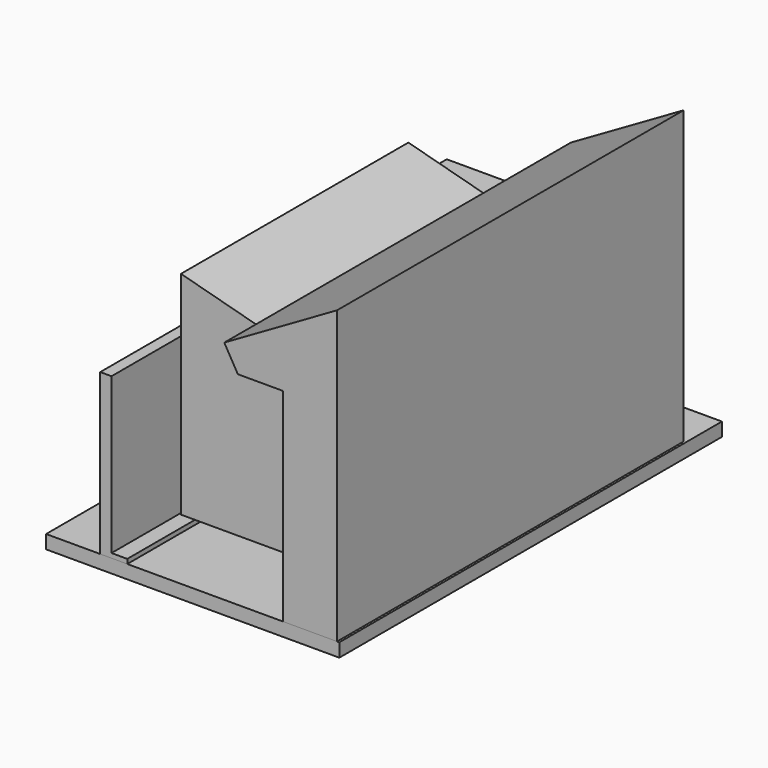
from build123d import *

# Parameters (mm, degrees)
F1_DEPTH  = 3200.4
F3_DEPTH  = 3505.2
F5_DEPTH  = 304.8
F8_DEPTH  = 1371.6
F9_W      = 3302
F9_H      = 152.4
F10_DEPTH = 5384.8
F12_DEPTH = 1371.6
F13_W     = 622.3
F13_H     = 2032
F14_DEPTH = 304.8
F17_DEPTH = 3200.4


with BuildPart() as f1:
    # F0 (on Front) → F1 (new body)
    with BuildSketch(Plane.XZ):
        Polygon((0, 1803.4), (0, 0), (304.8, 0), (304.8, 50.8), (127, 50.8), (127, 1803.4), align=None)
    extrude(amount=-F1_DEPTH)


with BuildPart() as f3:
    # F2 (on Front) → F3 (new body)
    with BuildSketch(Plane.XZ):
        Polygon((2057.4, 2286), (2057.4, 0), (2667, 0), (2667, 3283.1993849443), (1397, 2549.9645430735), (1549.4, 2286), align=None)
    extrude(amount=-F3_DEPTH)

    # F7 (on face) → F8 (join, through all)
    with BuildSketch(Plane.XZ):
        Polygon((1549.4, 2286), (2057.4, 2286), (2057.4, 0), (2667, 0), (2667, 3283.1993849443), (1397, 2549.9645430735), align=None)
    extrude(amount=F8_DEPTH)

    # F13 (on face) → F14 (cut)
    with BuildSketch(Plane(origin=(2057.4, 0, 0), x_dir=(0, -1, 0), z_dir=(-1, 0, 0))):
        with Locations((768.35, 1016)):
            Rectangle(F13_W, F13_H)
    extrude(amount=-F14_DEPTH, mode=Mode.SUBTRACT)


with BuildPart() as f5:
    # F4 (on face) → F5 (new body)
    with BuildSketch(Plane(origin=(0, 3200.4, 0), x_dir=(-1, 0, 0), z_dir=(0, 1, 0))):
        Polygon((-2057.4, 0), (0, 0), (0, 1930.4), (-1092.2, 1930.4), (-1092.2, 1828.8), (-2057.4, 1828.8), align=None)
    extrude(amount=F5_DEPTH)


with BuildPart() as f10:
    # F9 (on offset) → F10 (new body)
    with BuildSketch(Plane.XZ.offset(1371.6)):
        with Locations((1041.4, -76.2)):
            Rectangle(F9_W, F9_H)
    extrude(amount=-F10_DEPTH)


with BuildPart() as f12:
    # F11 (on face) → F12 (new body, through all)
    with BuildSketch(Plane.XZ):
        Polygon((304.8, 50.8), (127, 50.8), (127, 1803.4), (0, 1803.4), (0, 0), (304.8, 0), align=None)
    extrude(amount=F12_DEPTH)


with BuildPart() as f17:
    # F16 (on offset) → F17 (new body)
    with BuildSketch(Plane.XZ.offset(457.2)):
        Polygon((177.8, 2463.8), (177.8, 76.2), (1549.4, 76.2), (1549.4, 2096.2808876615), align=None)
    extrude(amount=-F17_DEPTH)


solid = Compound([f1.part, f3.part, f5.part, f10.part, f12.part, f17.part])
